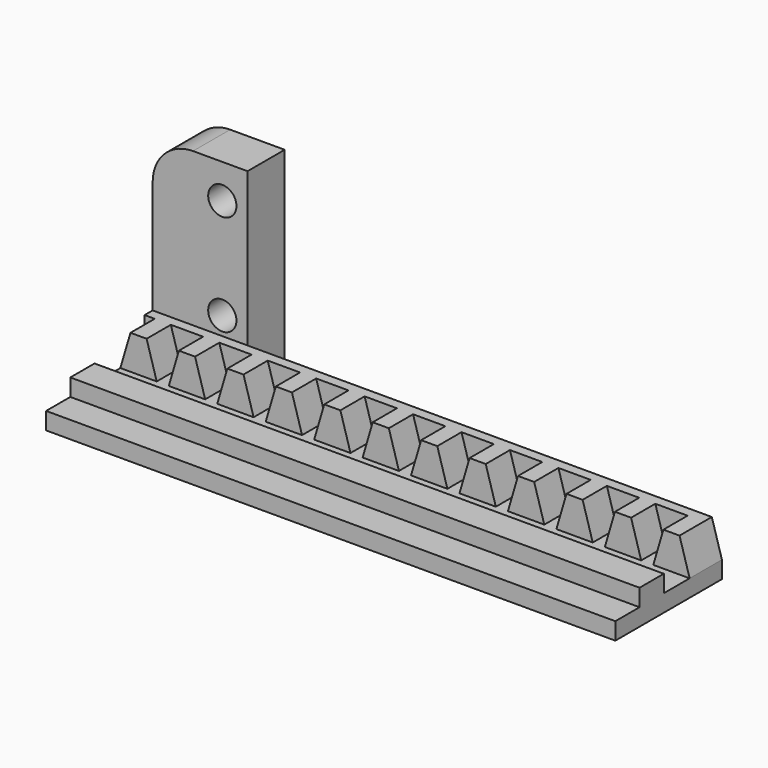
from build123d import *

# Parameters (mm, degrees)
F1_DEPTH = 3.81
F4_DEPTH = 71.628
F6_DEPTH = 1.27
F7_R     = 1.778
F8_DEPTH = 5.842
F9_R     = 5.08


with BuildPart() as f1:
    # F0 (on Front) → F1 (new body)
    with BuildSketch(Plane.XZ):
        Polygon((-38.4448663006, 16.8945933835), (-38.4448663006, 14.7355933835), (33.1831336994, 14.7355933835), (33.1831336994, 16.8945933835), (28.6111336994, 16.8945933835), (27.0871336994, 16.8945933835), (22.5151336994, 16.8945933835), (20.9911336994, 16.8945933835), (16.4191336994, 16.8945933835), (14.8951336994, 16.8945933835), (10.3231336994, 16.8945933835), (8.7991336994, 16.8945933835), (4.2271336994, 16.8945933835), (2.7031336994, 16.8945933835), (-1.8688663006, 16.8945933835), (-3.3928663006, 16.8945933835), (-7.9648663006, 16.8945933835), (-9.4888663006, 16.8945933835), (-14.0608663006, 16.8945933835), (-15.5848663006, 16.8945933835), (-20.1568663006, 16.8945933835), (-21.6808663006, 16.8945933835), (-26.2528663006, 16.8945933835), (-27.7768663006, 16.8945933835), (-32.3488663006, 16.8945933835), (-33.8728663006, 16.8945933835), align=None)
        Polygon((-37.1748663006, 21.2125933835), (-38.4448663006, 16.8945933835), (-33.8728663006, 16.8945933835), (-35.1428663006, 21.2125933835), align=None)
        Polygon((28.6111336994, 16.8945933835), (33.1831336994, 16.8945933835), (31.9131336994, 21.2125933835), (29.8811336994, 21.2125933835), align=None)
        Polygon((-31.0788663006, 21.2125933835), (-32.3488663006, 16.8945933835), (-27.7768663006, 16.8945933835), (-29.0468663006, 21.2125933835), align=None)
        Polygon((22.5151336994, 16.8945933835), (27.0871336994, 16.8945933835), (25.8171336994, 21.2125933835), (23.7851336994, 21.2125933835), align=None)
        Polygon((-24.9828663006, 21.2125933835), (-26.2528663006, 16.8945933835), (-21.6808663006, 16.8945933835), (-22.9508663006, 21.2125933835), align=None)
        Polygon((16.4191336994, 16.8945933835), (20.9911336994, 16.8945933835), (19.7211336994, 21.2125933835), (17.6891336994, 21.2125933835), align=None)
        Polygon((-18.8868663006, 21.2125933835), (-20.1568663006, 16.8945933835), (-15.5848663006, 16.8945933835), (-16.8548663006, 21.2125933835), align=None)
        Polygon((10.3231336994, 16.8945933835), (14.8951336994, 16.8945933835), (13.6251336994, 21.2125933835), (11.5931336994, 21.2125933835), align=None)
        Polygon((-12.7908663006, 21.2125933835), (-14.0608663006, 16.8945933835), (-9.4888663006, 16.8945933835), (-10.7588663006, 21.2125933835), align=None)
        Polygon((4.2271336994, 16.8945933835), (8.7991336994, 16.8945933835), (7.5291336994, 21.2125933835), (5.4971336994, 21.2125933835), align=None)
        Polygon((-6.6948663006, 21.2125933835), (-7.9648663006, 16.8945933835), (-3.3928663006, 16.8945933835), (-4.6628663006, 21.2125933835), align=None)
        Polygon((-1.8688663006, 16.8945933835), (2.7031336994, 16.8945933835), (1.4331336994, 21.2125933835), (-0.5988663006, 21.2125933835), align=None)
    extrude(amount=F1_DEPTH)

    # F3 (on plane+point) → F4 (join, through all)
    with BuildSketch(Plane.YZ.offset(33.1831336994)):
        Polygon((-15.494, 14.7355933835), (-3.81, 14.7355933835), (-3.81, 16.8945933835), (-7.874, 16.8945933835), (-7.874, 19.0535933835), (-11.684, 19.0535933835), (-11.684, 16.8945933835), (-15.494, 16.8945933835), align=None)
    extrude(amount=-F4_DEPTH)

    # F5 (on face) → F6 (join)
    with BuildSketch(Plane(origin=(0, 0, 0), x_dir=(-1, 0, 0), z_dir=(0, 1, 0))):
        Polygon((33.8728663006, 16.8945933835), (35.1428663006, 21.2125933835), (31.0788663006, 21.2125933835), (32.3488663006, 16.8945933835), align=None)
        Polygon((27.7768663006, 16.8945933835), (29.0468663006, 21.2125933835), (24.9828663006, 21.2125933835), (26.2528663006, 16.8945933835), align=None)
        Polygon((21.6808663006, 16.8945933835), (22.9508663006, 21.2125933835), (18.8868663006, 21.2125933835), (20.1568663006, 16.8945933835), align=None)
        Polygon((15.5848663006, 16.8945933835), (16.8548663006, 21.2125933835), (12.7908663006, 21.2125933835), (14.0608663006, 16.8945933835), align=None)
        Polygon((9.4888663006, 16.8945933835), (10.7588663006, 21.2125933835), (6.6948663006, 21.2125933835), (7.9648663006, 16.8945933835), align=None)
        Polygon((3.3928663006, 16.8945933835), (4.6628663006, 21.2125933835), (0.5988663006, 21.2125933835), (1.8688663006, 16.8945933835), align=None)
        Polygon((-1.4331336994, 21.2125933835), (-5.4971336994, 21.2125933835), (-4.2271336994, 16.8945933835), (-2.7031336994, 16.8945933835), align=None)
        Polygon((-7.5291336994, 21.2125933835), (-11.5931336994, 21.2125933835), (-10.3231336994, 16.8945933835), (-8.7991336994, 16.8945933835), align=None)
        Polygon((-13.6251336994, 21.2125933835), (-17.6891336994, 21.2125933835), (-16.4191336994, 16.8945933835), (-14.8951336994, 16.8945933835), align=None)
        Polygon((-19.7211336994, 21.2125933835), (-23.7851336994, 21.2125933835), (-22.5151336994, 16.8945933835), (-20.9911336994, 16.8945933835), align=None)
        Polygon((-25.8171336994, 21.2125933835), (-29.8811336994, 21.2125933835), (-28.6111336994, 16.8945933835), (-27.0871336994, 16.8945933835), align=None)
        Polygon((-33.1831336994, 14.7355933835), (38.4448663006, 14.7355933835), (38.4448663006, 16.8945933835), (37.1748663006, 21.2125933835), (35.1428663006, 21.2125933835), (33.8728663006, 16.8945933835), (32.3488663006, 16.8945933835), (31.0788663006, 21.2125933835), (29.0468663006, 21.2125933835), (27.7768663006, 16.8945933835), (26.2528663006, 16.8945933835), (24.9828663006, 21.2125933835), (22.9508663006, 21.2125933835), (21.6808663006, 16.8945933835), (20.1568663006, 16.8945933835), (18.8868663006, 21.2125933835), (16.8548663006, 21.2125933835), (15.5848663006, 16.8945933835), (14.0608663006, 16.8945933835), (12.7908663006, 21.2125933835), (10.7588663006, 21.2125933835), (9.4888663006, 16.8945933835), (7.9648663006, 16.8945933835), (6.6948663006, 21.2125933835), (4.6628663006, 21.2125933835), (3.3928663006, 16.8945933835), (1.8688663006, 16.8945933835), (0.5988663006, 21.2125933835), (-1.4331336994, 21.2125933835), (-2.7031336994, 16.8945933835), (-4.2271336994, 16.8945933835), (-5.4971336994, 21.2125933835), (-7.5291336994, 21.2125933835), (-8.7991336994, 16.8945933835), (-10.3231336994, 16.8945933835), (-11.5931336994, 21.2125933835), (-13.6251336994, 21.2125933835), (-14.8951336994, 16.8945933835), (-16.4191336994, 16.8945933835), (-17.6891336994, 21.2125933835), (-19.7211336994, 21.2125933835), (-20.9911336994, 16.8945933835), (-22.5151336994, 16.8945933835), (-23.7851336994, 21.2125933835), (-25.8171336994, 21.2125933835), (-27.0871336994, 16.8945933835), (-28.6111336994, 16.8945933835), (-29.8811336994, 21.2125933835), (-31.9131336994, 21.2125933835), (-33.1831336994, 16.8945933835), align=None)
        Polygon((37.1748663006, 21.2125933835), (38.4448663006, 16.8945933835), (38.4448663006, 21.2125933835), align=None)
    extrude(amount=F6_DEPTH)

    # F7 (on face) → F8 (join)
    with BuildSketch(Plane(origin=(0, 1.27, 0), x_dir=(-1, 0, 0), z_dir=(0, 1, 0))):
        Polygon((38.4448663006, 14.7355933835), (38.4448663006, 21.2125933835), (38.4448663006, 40.5165933835), (26.5068663006, 40.5165933835), (26.5068663006, 14.7355933835), align=None)
        with Locations((29.6818663006, 23.4985933835)):
            Circle(F7_R, mode=Mode.SUBTRACT)
        with Locations((29.6818663006, 36.1985933835)):
            Circle(F7_R, mode=Mode.SUBTRACT)
    extrude(amount=F8_DEPTH)

    # F9
    f9_edges = [f1.edges().sort_by_distance(p)[0] for p in [
        (-38.444866, 4.191, 40.516593),
    ]]
    fillet(f9_edges, radius=F9_R)


solid = f1.part
